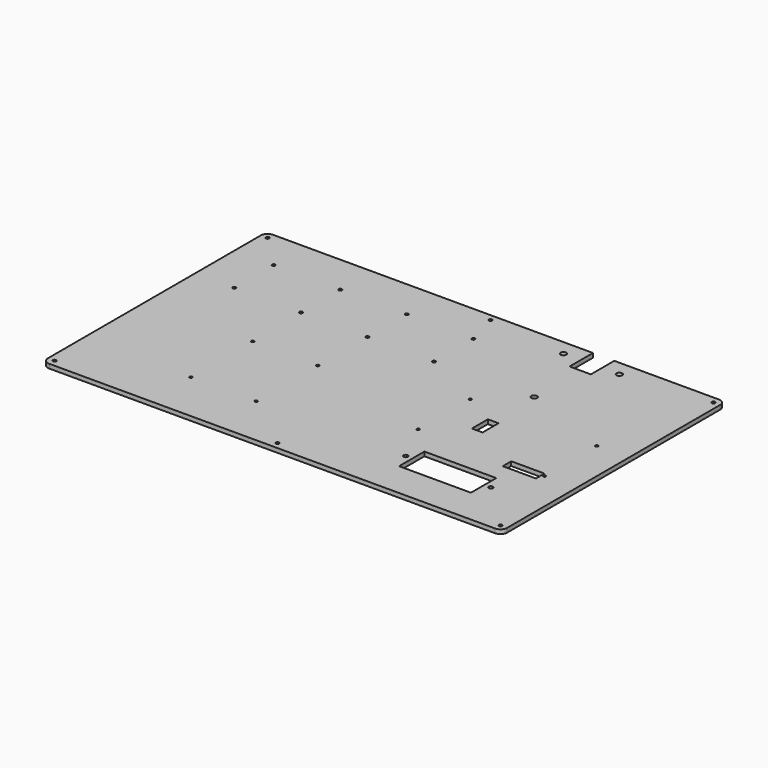
from build123d import *

# Parameters (mm, degrees)
F0_R     = 1.025
F0_R_2   = 1.6
F0_W     = 54
F0_H     = 23.811965
F0_W_2   = 8
F0_H_2   = 15
F0_W_3   = 25
F0_H_3   = 8
F0_R_3   = 1.2
F0_R_4   = 2.125
F1_DEPTH = 3.175
F2_R     = 5
F3_R     = 1.25
F4_DEPTH = 3.176


with BuildPart() as f1:
    # F0 (on Top) → F1 (new body)
    with BuildSketch(Plane.XY):
        Polygon((0, 210), (0, 0), (345, 0), (345, 210), (261.513983, 210), (261.513983, 188), (245.513983, 188), (245.513983, 210), align=None)
        with Locations((80.437288, 38.733408)):
            Circle(F0_R, mode=Mode.SUBTRACT)
        with Locations((129.437288, 38.733408)):
            Circle(F0_R, mode=Mode.SUBTRACT)
        with Locations((80.437288, 96.733408)):
            Circle(F0_R, mode=Mode.SUBTRACT)
        with Locations((129.437288, 96.733408)):
            Circle(F0_R, mode=Mode.SUBTRACT)
        with Locations((241.513983, 39.155032)):
            Circle(F0_R_2, mode=Mode.SUBTRACT)
        with Locations((273.513983, 38.532448)):
            Rectangle(F0_W, F0_H, mode=Mode.SUBTRACT)
        with Locations((305.513983, 39.155032)):
            Circle(F0_R_2, mode=Mode.SUBTRACT)
        with Locations((226.013983, 70.155032)):
            Circle(F0_R, mode=Mode.SUBTRACT)
        with Locations((254.013983, 98.155032)):
            Rectangle(F0_W_2, F0_H_2, mode=Mode.SUBTRACT)
        with Locations((306.513983, 68.60377)):
            Rectangle(F0_W_3, F0_H_3, mode=Mode.SUBTRACT)
        with Locations((321.013983, 70.155032)):
            Circle(F0_R, mode=Mode.SUBTRACT)
        with Locations((29.495293, 143.198627)):
            Circle(F0_R_3, mode=Mode.SUBTRACT)
        with Locations((79.495293, 143.198627)):
            Circle(F0_R_3, mode=Mode.SUBTRACT)
        with Locations((129.495293, 143.198627)):
            Circle(F0_R_3, mode=Mode.SUBTRACT)
        with Locations((29.495293, 180.198627)):
            Circle(F0_R_3, mode=Mode.SUBTRACT)
        with Locations((79.495293, 180.198627)):
            Circle(F0_R_3, mode=Mode.SUBTRACT)
        with Locations((129.495293, 180.198627)):
            Circle(F0_R_3, mode=Mode.SUBTRACT)
        with Locations((226.013983, 119.155032)):
            Circle(F0_R, mode=Mode.SUBTRACT)
        with Locations((179.495293, 143.198627)):
            Circle(F0_R_3, mode=Mode.SUBTRACT)
        with Locations((253.513983, 144.8)):
            Circle(F0_R_4, mode=Mode.SUBTRACT)
        with Locations((321.013983, 119.155032)):
            Circle(F0_R, mode=Mode.SUBTRACT)
        with Locations((179.495293, 180.198627)):
            Circle(F0_R_3, mode=Mode.SUBTRACT)
        with Locations((232.513983, 198.5)):
            Circle(F0_R_4, mode=Mode.SUBTRACT)
        with Locations((274.513983, 198.5)):
            Circle(F0_R_4, mode=Mode.SUBTRACT)
    extrude(amount=F1_DEPTH)

    # F2
    f2_edges = [f1.edges().sort_by_distance(p)[0] for p in [
        (0, 210, 1.5875),
        (0, 0, 1.5875),
        (345, 0, 1.5875),
        (345, 210, 1.5875),
    ]]
    fillet(f2_edges, radius=F2_R)

    # F3 (on face) → F4 (cut, through all)
    with BuildSketch(Plane.XY.offset(3.175)):
        with Locations((5, 5)):
            Circle(F3_R)
        with Locations((5, 205)):
            Circle(F3_R)
        with Locations((340, 5)):
            Circle(F3_R)
        with Locations((340, 205)):
            Circle(F3_R)
        with Locations((172.5, 5)):
            Circle(F3_R)
        with Locations((172.5, 205)):
            Circle(F3_R)
    extrude(amount=-F4_DEPTH, mode=Mode.SUBTRACT)


solid = f1.part
